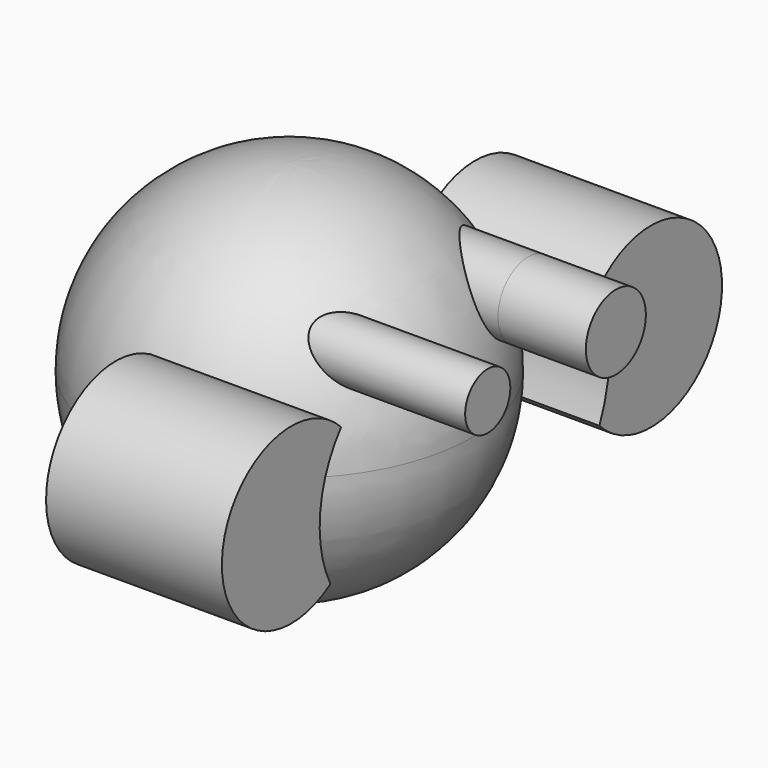
from build123d import *

# Parameters (mm, degrees)
F2_R        = 8.161736
F2_R_2      = 10.839376
F3_DEPTH    = 50.8
F3_FACE_R   = 8.161736
F3_FACE_R_2 = 10.839376
F4_DEPTH    = 25.4


with BuildPart() as f1:
    # F0 (on Right) → F1 (revolve)
    with BuildSketch(Plane.YZ):
        with BuildLine():
            ThreePointArc((0, -52.732251), (37.287332, -37.287332), (52.732251, 0))
            ThreePointArc((52.732251, 0), (37.287332, 37.287332), (0, 52.732251))
            Line((0, 52.732251), (0, -52.732251))
        make_face()
    revolve(axis=Axis((0, 0, 0), (0, 0, -1)))

    # F2 (on Right) → F3 (join)
    with BuildSketch(Plane.YZ):
        with Locations((-23.597419, 26.547099)):
            Circle(F2_R)
        with Locations((22.675646, 25.256613)):
            Circle(F2_R_2)
        with BuildLine():
            ThreePointArc((-48.669677, -18.066773), (-52.367097, 1.67486), (-44.798229, 20.279033))
            ThreePointArc((-44.798229, 20.279033), (-87.739266, 5.246086), (-48.669677, -18.066773))
        make_face()
        with BuildLine():
            ThreePointArc((48.300967, 17.88242), (52.145558, 0.296178), (48.485324, -17.329356))
            ThreePointArc((48.485324, -17.329356), (92.770166, 0.508875), (48.300967, 17.88242))
        make_face()
    extrude(amount=F3_DEPTH)

    # F3_face (on face) → F4 (join)
    with BuildSketch(Plane(origin=(50.8, -23.597419, 26.547099), x_dir=(0, 1, 0), z_dir=(1, 0, 0))):
        Circle(F3_FACE_R)
        with Locations((46.273066, -1.290485)):
            Circle(F3_FACE_R_2)
    extrude(amount=F4_DEPTH)


solid = f1.part
